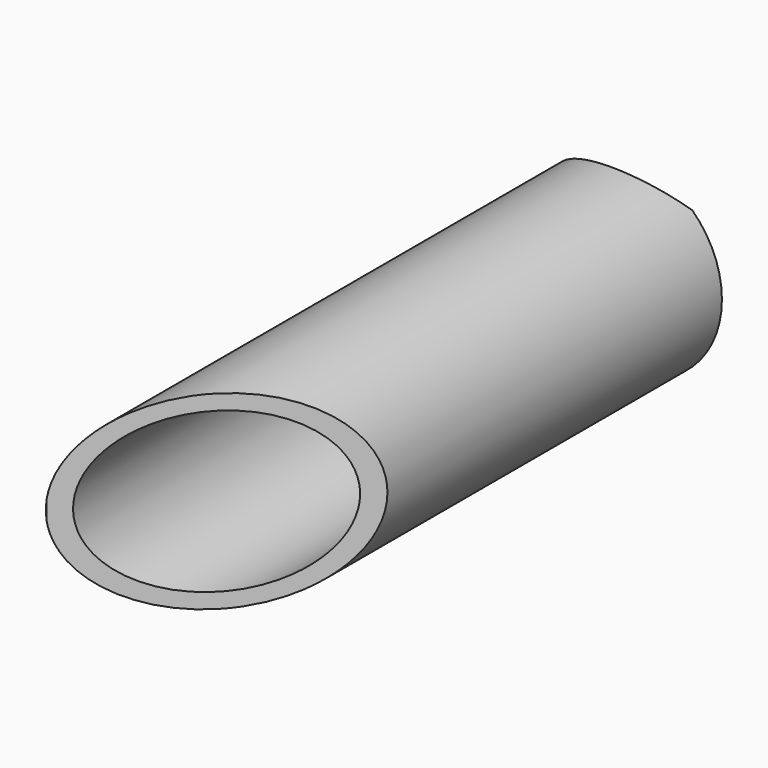
from build123d import *

# Parameters (mm, degrees)
F0_R     = 12.5
F0_R_2   = 10.5
F1_DEPTH = 80
F3_DEPTH = 12.5
F5_DEPTH = 25


with BuildPart() as f1:
    # F0 (on Front) → F1 (new body)
    with BuildSketch(Plane.XZ):
        Circle(F0_R)
        Circle(F0_R_2, mode=Mode.SUBTRACT)
    extrude(amount=F1_DEPTH)

    # F2 (on Top) → F3 (cut, symmetric)
    with BuildSketch(Plane.XY):
        Polygon((12.505536, -55.04792), (-12.494464, -80.04792), (12.505536, -80.04792), align=None)
    extrude(amount=F3_DEPTH, both=True, mode=Mode.SUBTRACT)

    # F4 (on Top) → F5 (cut, symmetric)
    with BuildSketch(Plane.XY):
        with BuildLine():
            Line((8.606103, 0), (-8.96935, 0))
            ThreePointArc((-8.96935, 0), (-0.181624, -2.84369), (8.606103, 0))
        make_face()
    extrude(amount=F5_DEPTH, both=True, mode=Mode.SUBTRACT)


solid = f1.part
